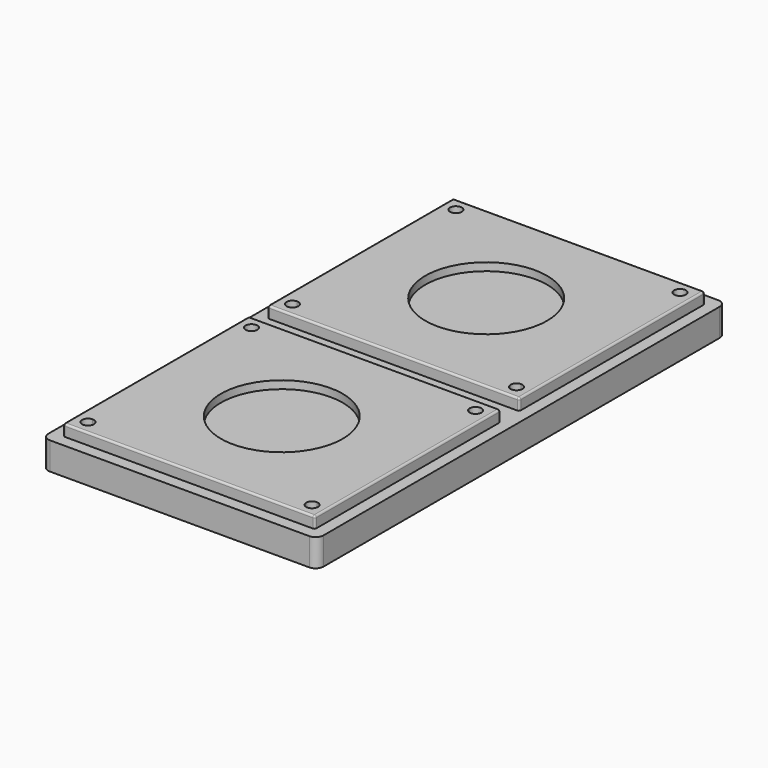
from build123d import *

# Parameters (mm, degrees)
F0_W      = 70
F0_H      = 130
F1_DEPTH  = 7
F3_W      = 64
F3_H      = 59
F4_W      = 64
F4_H      = 59
F5_DEPTH  = 2.9
F7_DEPTH  = 3
F9_DEPTH  = 2
F10_R     = 0.5
F11_R     = 15.5
F12_DEPTH = 2
F13_R     = 15.5
F14_DEPTH = 2
F15_R     = 2


with BuildPart() as f1:
    # F0 (on Top) → F1 (new body)
    with BuildSketch(Plane.XY):
        with Locations((-30.63919, 34.821038)):
            Rectangle(F0_W, F0_H)
    extrude(amount=F1_DEPTH)

    # F3 (on face) + F4 (on face) → F5 (join)
    with BuildSketch(Plane.XY.offset(7)):
        with Locations((-30.63919, 67.321038)):
            Rectangle(F3_W, F3_H)
    with BuildSketch(Plane.XY.offset(7)):
        with Locations((-30.63919, 2.321038)):
            Rectangle(F4_W, F4_H)
    extrude(amount=F5_DEPTH)

    # F6 (on face) → F7 (cut)
    with BuildSketch(Plane.XY.offset(9.9)):
        with BuildLine():
            Line((-59.13919, 91.821038), (-59.13919, 93.321038))
            Line((-59.13919, 93.321038), (-57.63919, 93.321038))
            ThreePointArc((-57.63919, 93.321038), (-60.199851, 94.381698), (-59.13919, 91.821038))
        make_face()
        with BuildLine():
            Line((-57.63919, 93.321038), (-59.13919, 93.321038))
            Line((-59.13919, 93.321038), (-59.13919, 91.821038))
            ThreePointArc((-59.13919, 91.821038), (-58.07853, 92.260378), (-57.63919, 93.321038))
        make_face()
        with BuildLine():
            Line((-59.13919, 41.321038), (-59.13919, 42.821038))
            ThreePointArc((-59.13919, 42.821038), (-60.199851, 40.260378), (-57.63919, 41.321038))
            Line((-57.63919, 41.321038), (-59.13919, 41.321038))
        make_face()
        with BuildLine():
            ThreePointArc((-57.63919, 41.321038), (-58.07853, 42.381698), (-59.13919, 42.821038))
            Line((-59.13919, 42.821038), (-59.13919, 41.321038))
            Line((-59.13919, 41.321038), (-57.63919, 41.321038))
        make_face()
        with BuildLine():
            Line((-2.13919, 41.321038), (-3.63919, 41.321038))
            ThreePointArc((-3.63919, 41.321038), (-2.13919, 39.821038), (-0.63919, 41.321038))
            ThreePointArc((-0.63919, 41.321038), (-1.07853, 42.381698), (-2.13919, 42.821038))
            Line((-2.13919, 42.821038), (-2.13919, 41.321038))
        make_face()
        with BuildLine():
            ThreePointArc((-2.13919, 42.821038), (-3.199851, 42.381698), (-3.63919, 41.321038))
            Line((-3.63919, 41.321038), (-2.13919, 41.321038))
            Line((-2.13919, 41.321038), (-2.13919, 42.821038))
        make_face()
        with BuildLine():
            ThreePointArc((-0.63919, 93.321038), (-2.13919, 94.821038), (-3.63919, 93.321038))
            Line((-3.63919, 93.321038), (-2.13919, 93.321038))
            Line((-2.13919, 93.321038), (-2.13919, 91.821038))
            ThreePointArc((-2.13919, 91.821038), (-1.07853, 92.260378), (-0.63919, 93.321038))
        make_face()
        with BuildLine():
            Line((-2.13919, 93.321038), (-3.63919, 93.321038))
            ThreePointArc((-3.63919, 93.321038), (-3.199851, 92.260378), (-2.13919, 91.821038))
            Line((-2.13919, 91.821038), (-2.13919, 93.321038))
        make_face()
    extrude(amount=-F7_DEPTH, mode=Mode.SUBTRACT)

    # F8 (on face) → F9 (cut)
    with BuildSketch(Plane.XY.offset(9.9)):
        with BuildLine():
            Line((-59.13919, 28.321038), (-57.63919, 28.321038))
            ThreePointArc((-57.63919, 28.321038), (-60.199851, 29.381698), (-59.13919, 26.821038))
            Line((-59.13919, 26.821038), (-59.13919, 28.321038))
        make_face()
        with BuildLine():
            ThreePointArc((-59.13919, 26.821038), (-58.07853, 27.260378), (-57.63919, 28.321038))
            Line((-57.63919, 28.321038), (-59.13919, 28.321038))
            Line((-59.13919, 28.321038), (-59.13919, 26.821038))
        make_face()
        with BuildLine():
            Line((-59.13919, -23.678962), (-59.13919, -22.178962))
            ThreePointArc((-59.13919, -22.178962), (-60.199851, -24.739622), (-57.63919, -23.678962))
            Line((-57.63919, -23.678962), (-59.13919, -23.678962))
        make_face()
        with BuildLine():
            ThreePointArc((-57.63919, -23.678962), (-58.07853, -22.618302), (-59.13919, -22.178962))
            Line((-59.13919, -22.178962), (-59.13919, -23.678962))
            Line((-59.13919, -23.678962), (-57.63919, -23.678962))
        make_face()
        with BuildLine():
            ThreePointArc((-0.63919, 28.321038), (-2.13919, 29.821038), (-3.63919, 28.321038))
            Line((-3.63919, 28.321038), (-2.13919, 28.321038))
            Line((-2.13919, 28.321038), (-2.13919, 26.821038))
            ThreePointArc((-2.13919, 26.821038), (-1.07853, 27.260378), (-0.63919, 28.321038))
        make_face()
        with BuildLine():
            Line((-2.13919, 28.321038), (-3.63919, 28.321038))
            ThreePointArc((-3.63919, 28.321038), (-3.199851, 27.260378), (-2.13919, 26.821038))
            Line((-2.13919, 26.821038), (-2.13919, 28.321038))
        make_face()
        with BuildLine():
            ThreePointArc((-0.63919, -23.678962), (-1.07853, -22.618302), (-2.13919, -22.178962))
            Line((-2.13919, -22.178962), (-2.13919, -23.678962))
            Line((-2.13919, -23.678962), (-3.63919, -23.678962))
            ThreePointArc((-3.63919, -23.678962), (-2.13919, -25.178962), (-0.63919, -23.678962))
        make_face()
        with BuildLine():
            Line((-2.13919, -23.678962), (-2.13919, -22.178962))
            ThreePointArc((-2.13919, -22.178962), (-3.199851, -22.618302), (-3.63919, -23.678962))
            Line((-3.63919, -23.678962), (-2.13919, -23.678962))
        make_face()
    extrude(amount=-F9_DEPTH, mode=Mode.SUBTRACT)

    # F10
    f10_edges = [f1.edges().sort_by_distance(p)[0] for p in [
        (-30.63919, 37.821038, 9.9),
        (1.36081, 67.321038, 9.9),
        (1.36081, 2.321038, 9.9),
        (-30.63919, 31.821038, 9.9),
        (-30.63919, 96.821038, 9.9),
        (-62.63919, 67.321038, 9.9),
        (-62.63919, 2.321038, 9.9),
        (-30.63919, -27.178962, 9.9),
        (1.36081, -27.178962, 8.45),
        (1.36081, 31.821038, 8.45),
        (1.36081, 37.821038, 8.45),
        (1.36081, 96.821038, 8.45),
        (-62.63919, -27.178962, 8.45),
        (-62.63919, 31.821038, 8.45),
        (-62.63919, 37.821038, 8.45),
        (-62.63919, 96.821038, 8.45),
    ]]
    fillet(f10_edges, radius=F10_R)

    # F11 (on face) → F12 (cut)
    with BuildSketch(Plane.XY.offset(9.9)):
        with Locations((-30.63919, 2.321038)):
            Circle(F11_R)
    extrude(amount=-F12_DEPTH, mode=Mode.SUBTRACT)

    # F13 (on face) → F14 (cut)
    with BuildSketch(Plane.XY.offset(9.9)):
        with Locations((-30.63919, 67.321038)):
            Circle(F13_R)
    extrude(amount=-F14_DEPTH, mode=Mode.SUBTRACT)

    # F15
    f15_edges = [f1.edges().sort_by_distance(p)[0] for p in [
        (-65.63919, -30.178962, 3.5),
        (4.36081, -30.178962, 3.5),
        (4.36081, 99.821038, 3.5),
        (-65.63919, 99.821038, 3.5),
    ]]
    fillet(f15_edges, radius=F15_R)


solid = f1.part
